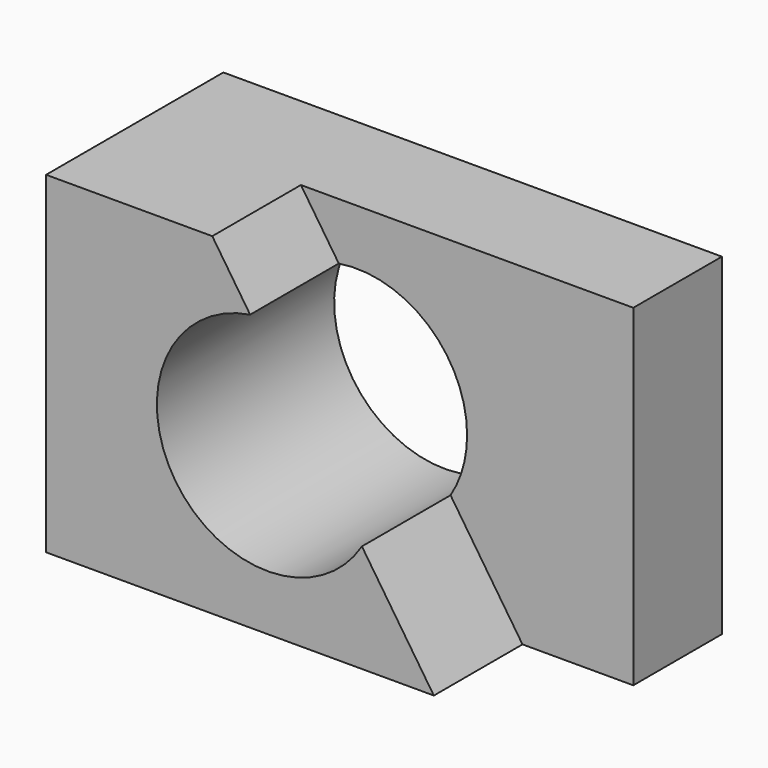
from build123d import *

# Parameters (mm, degrees)
F0_W     = 57.15
F0_H     = 38.1
F1_DEPTH = 25.4
F3_DEPTH = 12.7
F5_DEPTH = 25.401


with BuildPart() as f1:
    # F0 (on Front) → F1 (new body)
    with BuildSketch(Plane.XZ):
        with Locations((-6.772434, 14.993798)):
            Rectangle(F0_W, F0_H)
    extrude(amount=F1_DEPTH)

    # F2 (on face) → F3 (cut)
    with BuildSketch(Plane.XZ.offset(25.4)):
        Polygon((21.802566, 34.043798), (-16.297434, 34.043798), (9.102566, -4.056202), (21.802566, -4.056202), align=None)
    extrude(amount=-F3_DEPTH, mode=Mode.SUBTRACT)

    # F4 (on face) → F5 (cut, through all)
    with BuildSketch(Plane.XZ.offset(25.4)):
        with BuildLine():
            Line((0.854833, 8.315398), (-11.957393, 27.533737))
            ThreePointArc((-11.957393, 27.533737), (-20.514473, 7.949105), (0.854833, 8.315398))
        make_face()
        with BuildLine():
            ThreePointArc((0.854833, 8.315398), (2.268923, 11.5224), (2.752566, 14.993798))
            ThreePointArc((2.752566, 14.993798), (-1.708395, 24.658592), (-11.957393, 27.533737))
            Line((-11.957393, 27.533737), (0.854833, 8.315398))
        make_face()
    extrude(amount=-F5_DEPTH, mode=Mode.SUBTRACT)


solid = f1.part
